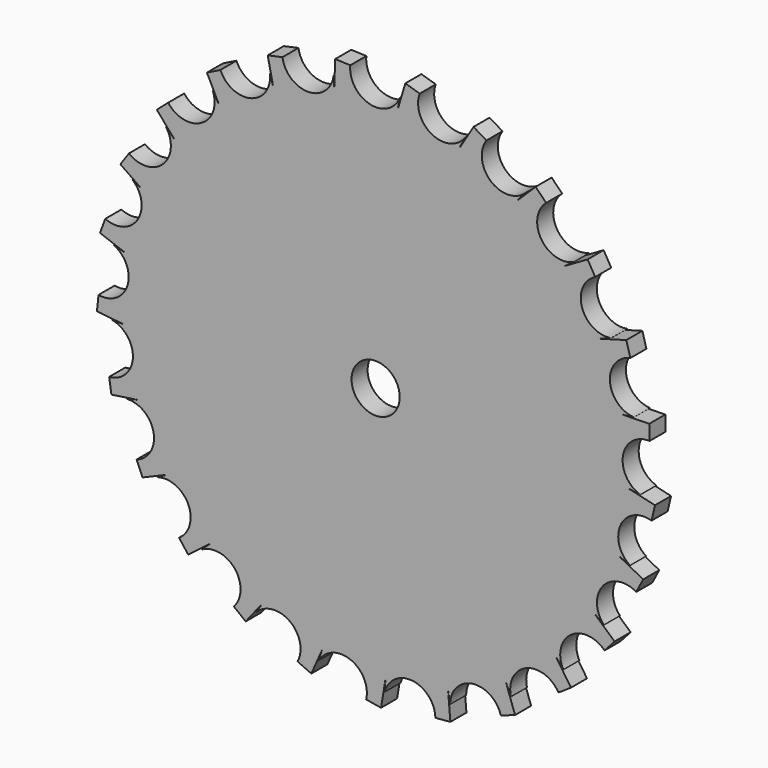
from build123d import *

# Parameters (mm, degrees)
F1_DEPTH = 2
F2_COUNT = 25
F3_DEPTH = 2
F0_R     = 1.3791907975
F4_R     = 24.1789897238
F5_DEPTH = 2
F6_R     = 2.4
F7_DEPTH = 12.5


with BuildPart() as f1:
    # F0 (on Front) → F1 (new body)
    with BuildSketch(Plane.XZ):
        with BuildLine():
            ThreePointArc((-20.8778160203, 16.1155972919), (-21.1981117968, 12.751512491), (-24.5742007448, 12.6042734059))
            Line((-24.5742007448, 12.6042734059), (-25.4280168593, 11.3709859121))
            Line((-25.4280168593, 11.3709859121), (-22.1392502091, 9.0941429398))
            Line((-22.1392502091, 9.0941429398), (-18.7239857507, 14.0272929152))
            Line((-18.7239857507, 14.0272929152), (-20.8778160203, 16.1155972919))
        make_face()
    extrude(amount=F1_DEPTH)


with BuildPart() as f2_1:
    # F2: instance of F1
    add(f1.part.rotate(Axis((0, 0, 0), (0, -1, 0)), 1 * 360 / F2_COUNT))


with BuildPart() as f2_2:
    # F2: instance of F1
    add(f1.part.rotate(Axis((0, 0, 0), (0, -1, 0)), 2 * 360 / F2_COUNT))


with BuildPart() as f2_3:
    # F2: instance of F1
    add(f1.part.rotate(Axis((0, 0, 0), (0, -1, 0)), 3 * 360 / F2_COUNT))


with BuildPart() as f2_4:
    # F2: instance of F1
    add(f1.part.rotate(Axis((0, 0, 0), (0, -1, 0)), 4 * 360 / F2_COUNT))


with BuildPart() as f2_5:
    # F2: instance of F1
    add(f1.part.rotate(Axis((0, 0, 0), (0, -1, 0)), 5 * 360 / F2_COUNT))


with BuildPart() as f2_6:
    # F2: instance of F1
    add(f1.part.rotate(Axis((0, 0, 0), (0, -1, 0)), 6 * 360 / F2_COUNT))


with BuildPart() as f2_7:
    # F2: instance of F1
    add(f1.part.rotate(Axis((0, 0, 0), (0, -1, 0)), 7 * 360 / F2_COUNT))


with BuildPart() as f2_8:
    # F2: instance of F1
    add(f1.part.rotate(Axis((0, 0, 0), (0, -1, 0)), 8 * 360 / F2_COUNT))


with BuildPart() as f2_9:
    # F2: instance of F1
    add(f1.part.rotate(Axis((0, 0, 0), (0, -1, 0)), 9 * 360 / F2_COUNT))


with BuildPart() as f2_10:
    # F2: instance of F1
    add(f1.part.rotate(Axis((0, 0, 0), (0, -1, 0)), 10 * 360 / F2_COUNT))


with BuildPart() as f2_11:
    # F2: instance of F1
    add(f1.part.rotate(Axis((0, 0, 0), (0, -1, 0)), 11 * 360 / F2_COUNT))


with BuildPart() as f2_12:
    # F2: instance of F1
    add(f1.part.rotate(Axis((0, 0, 0), (0, -1, 0)), 12 * 360 / F2_COUNT))


with BuildPart() as f2_13:
    # F2: instance of F1
    add(f1.part.rotate(Axis((0, 0, 0), (0, -1, 0)), 13 * 360 / F2_COUNT))


with BuildPart() as f2_14:
    # F2: instance of F1
    add(f1.part.rotate(Axis((0, 0, 0), (0, -1, 0)), 14 * 360 / F2_COUNT))


with BuildPart() as f2_15:
    # F2: instance of F1
    add(f1.part.rotate(Axis((0, 0, 0), (0, -1, 0)), 15 * 360 / F2_COUNT))


with BuildPart() as f2_16:
    # F2: instance of F1
    add(f1.part.rotate(Axis((0, 0, 0), (0, -1, 0)), 16 * 360 / F2_COUNT))


with BuildPart() as f2_17:
    # F2: instance of F1
    add(f1.part.rotate(Axis((0, 0, 0), (0, -1, 0)), 17 * 360 / F2_COUNT))


with BuildPart() as f2_18:
    # F2: instance of F1
    add(f1.part.rotate(Axis((0, 0, 0), (0, -1, 0)), 18 * 360 / F2_COUNT))


with BuildPart() as f2_19:
    # F2: instance of F1
    add(f1.part.rotate(Axis((0, 0, 0), (0, -1, 0)), 19 * 360 / F2_COUNT))


with BuildPart() as f2_20:
    # F2: instance of F1
    add(f1.part.rotate(Axis((0, 0, 0), (0, -1, 0)), 20 * 360 / F2_COUNT))


with BuildPart() as f2_21:
    # F2: instance of F1
    add(f1.part.rotate(Axis((0, 0, 0), (0, -1, 0)), 21 * 360 / F2_COUNT))


with BuildPart() as f2_22:
    # F2: instance of F1
    add(f1.part.rotate(Axis((0, 0, 0), (0, -1, 0)), 22 * 360 / F2_COUNT))


with BuildPart() as f2_23:
    # F2: instance of F1
    add(f1.part.rotate(Axis((0, 0, 0), (0, -1, 0)), 23 * 360 / F2_COUNT))


with BuildPart() as f2_24:
    # F2: instance of F1
    add(f1.part.rotate(Axis((0, 0, 0), (0, -1, 0)), 24 * 360 / F2_COUNT))


with BuildPart() as f1_1:
    add(f1.part)

    add(f2_1.part)  # F3 merges F2_1

    add(f2_24.part)  # F3 merges F2_24
    # F0 (on Front) → F3 (join)
    with BuildSketch(Plane.XZ):
        with BuildLine():
            ThreePointArc((-20.8778160203, 16.1155972919), (-21.1981117968, 12.751512491), (-24.5742007448, 12.6042734059))
            Line((-24.5742007448, 12.6042734059), (-25.4280168593, 11.3709859121))
            Line((-25.4280168593, 11.3709859121), (-22.1392502091, 9.0941429398))
            Line((-22.1392502091, 9.0941429398), (-18.7239857507, 14.0272929152))
            Line((-18.7239857507, 14.0272929152), (-20.8778160203, 16.1155972919))
        make_face()
    extrude(amount=F3_DEPTH)

    add(f2_2.part)  # F5 merges F2_2

    add(f2_3.part)  # F5 merges F2_3

    add(f2_4.part)  # F5 merges F2_4

    add(f2_5.part)  # F5 merges F2_5

    add(f2_6.part)  # F5 merges F2_6

    add(f2_7.part)  # F5 merges F2_7

    add(f2_8.part)  # F5 merges F2_8

    add(f2_9.part)  # F5 merges F2_9

    add(f2_10.part)  # F5 merges F2_10

    add(f2_11.part)  # F5 merges F2_11

    add(f2_12.part)  # F5 merges F2_12

    add(f2_13.part)  # F5 merges F2_13

    add(f2_14.part)  # F5 merges F2_14

    add(f2_15.part)  # F5 merges F2_15

    add(f2_16.part)  # F5 merges F2_16

    add(f2_17.part)  # F5 merges F2_17

    add(f2_18.part)  # F5 merges F2_18

    add(f2_19.part)  # F5 merges F2_19

    add(f2_20.part)  # F5 merges F2_20

    add(f2_21.part)  # F5 merges F2_21

    add(f2_22.part)  # F5 merges F2_22

    add(f2_23.part)  # F5 merges F2_23


with BuildPart() as f3:
    # F0 (on Front) → F3, piece 2 (new body)
    with BuildSketch(Plane.XZ):
        Circle(F0_R)
    extrude(amount=F3_DEPTH)


with BuildPart() as f1_2:
    add(f1_1.part)

    add(f3.part)  # F5 merges F3
    # F4 (on Front) → F5 (join)
    with BuildSketch(Plane.XZ):
        Circle(F4_R)
    extrude(amount=F5_DEPTH)

    # F6 (on Front) → F7 (cut, symmetric)
    with BuildSketch(Plane.XZ):
        Circle(F6_R)
    extrude(amount=F7_DEPTH, both=True, mode=Mode.SUBTRACT)


solid = f1_2.part
